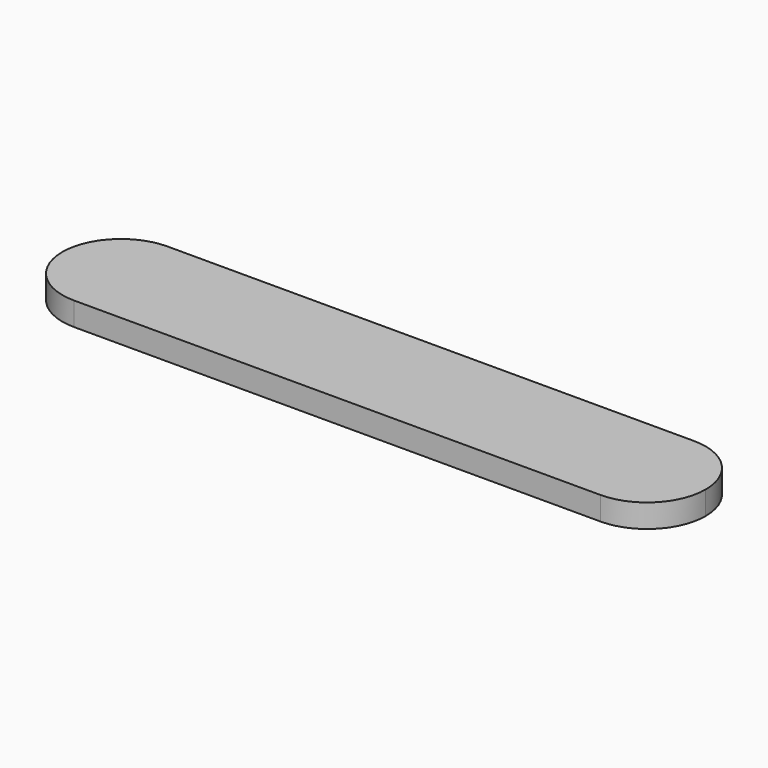
from build123d import *

# Parameters (mm, degrees)
F1_DEPTH = 2.54


with BuildPart() as f1:
    # F0 (on Top) → F1 (new body)
    with BuildSketch(Plane.XY):
        with BuildLine():
            Line((41.604157, -2.828941), (-15.545843, -2.828941))
            ThreePointArc((-15.545843, -2.828941), (-20.035971, -4.688813), (-21.895843, -9.178941))
            ThreePointArc((-21.895843, -9.178941), (-20.035971, -13.669069), (-15.545843, -15.528941))
            Line((-15.545843, -15.528941), (41.604157, -15.528941))
            ThreePointArc((41.604157, -15.528941), (46.094285, -13.669069), (47.954157, -9.178941))
            ThreePointArc((47.954157, -9.178941), (46.094285, -4.688813), (41.604157, -2.828941))
        make_face()
    extrude(amount=-F1_DEPTH)


solid = f1.part
